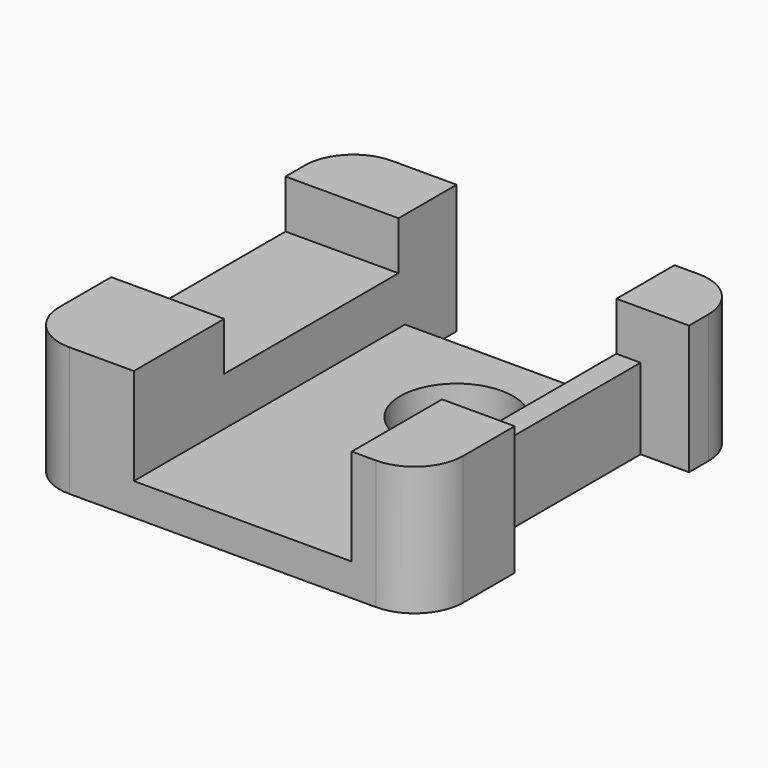
from build123d import *

# Parameters (mm, degrees)
F0_W      = 25
F0_H      = 25
F1_DEPTH  = 8
F2_W      = 13.5
F2_H      = 25
F3_DEPTH  = 6
F4_R      = 3
F5_DEPTH  = 6
F6_W      = 7
F6_H      = 13.5
F7_DEPTH  = 3
F8_W      = 4.5
F8_H      = 13.5
F9_DEPTH  = 3
F10_W     = 3
F10_H     = 13.5
F11_DEPTH = 6
F12_W     = 13.5
F12_H     = 4
F13_DEPTH = 3
F15_D     = 7


with BuildPart() as f1:
    # F0 (on Top) → F1 (new body)
    with BuildSketch(Plane.XY):
        with Locations((-2.5, -2.5)):
            Rectangle(F0_W, F0_H)
    extrude(amount=F1_DEPTH)

    # F2 (on face) → F3 (cut)
    with BuildSketch(Plane.XY.offset(8)):
        with Locations((-1.25, -2.5)):
            Rectangle(F2_W, F2_H)
    extrude(amount=-F3_DEPTH, mode=Mode.SUBTRACT)

    # F4
    f4_edges = [f1.edges().sort_by_distance(p)[0] for p in [
        (10, -15, 4),
        (10, 10, 4),
        (-15, 10, 4),
        (-15, -15, 4),
    ]]
    fillet(f4_edges, radius=F4_R)

    # F2 (on face) → F5 (cut)
    with BuildSketch(Plane.XY.offset(8)):
        with Locations((-1.25, -2.5)):
            Rectangle(F2_W, F2_H)
    extrude(amount=-F5_DEPTH, mode=Mode.SUBTRACT)

    # F6 (on face) → F7 (cut)
    with BuildSketch(Plane.XY.offset(8)):
        with Locations((-11.5, -1.25)):
            Rectangle(F6_W, F6_H)
    extrude(amount=-F7_DEPTH, mode=Mode.SUBTRACT)

    # F8 (on face) → F9 (cut)
    with BuildSketch(Plane.XY.offset(8)):
        with Locations((7.75, -1.25)):
            Rectangle(F8_W, F8_H)
    extrude(amount=-F9_DEPTH, mode=Mode.SUBTRACT)

    # F10 (on face) → F11 (cut)
    with BuildSketch(Plane.XY.offset(5)):
        with Locations((8.5, -1.25)):
            Rectangle(F10_W, F10_H)
    extrude(amount=-F11_DEPTH, mode=Mode.SUBTRACT)

    # F12 (on face) → F13 (cut)
    with BuildSketch(Plane.XY.offset(2)):
        with Locations((-1.25, 8)):
            Rectangle(F12_W, F12_H)
    extrude(amount=-F13_DEPTH, mode=Mode.SUBTRACT)

    # F15 (through all)
    with Locations(Plane(origin=(0, 0, 0), x_dir=(1, 0, 0), z_dir=(0, 0, -1))):
        with Locations((0, 0)):
            Hole(F15_D / 2)


solid = f1.part
